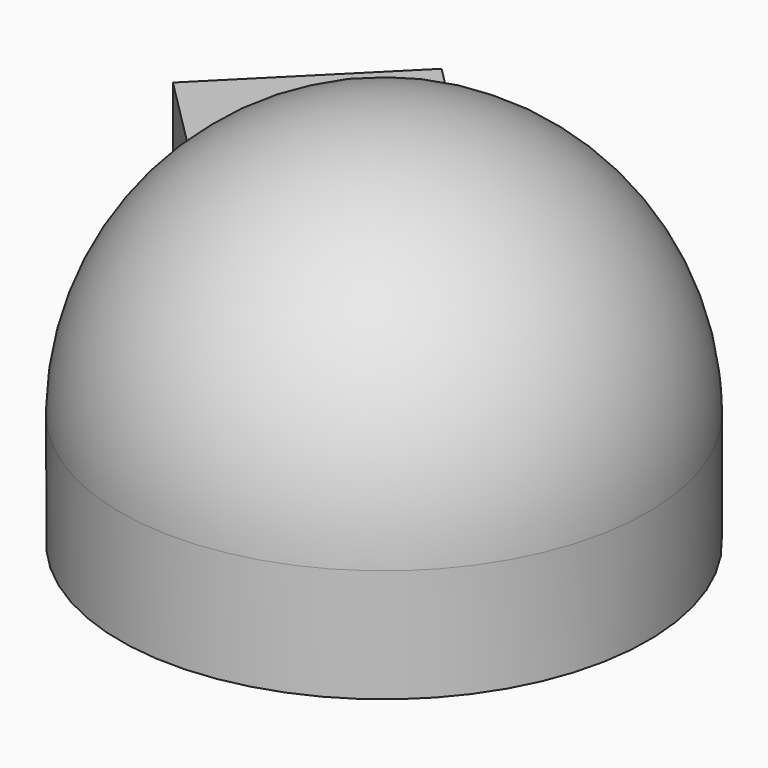
from build123d import *

# Parameters (mm, degrees)
CYLINDER055_R             = 35
CYLINDER055_DEPTH         = 15
BOX041_W                  = 28
BOX041_H                  = 45
BOX041_DEPTH              = 15
SPHERE002_ANGLE           = 180
FUSION034_PLACEMENT_ANGLE = 45


with BuildPart() as cylinder055:
    # Cylinder055 → Cylinder055 (new body)
    with BuildSketch(Plane(origin=(73.5, -135, -81), x_dir=(1, 0, 0), z_dir=(0, 0, 1))):
        Circle(CYLINDER055_R)
    extrude(amount=CYLINDER055_DEPTH)


with BuildPart() as cube029:
    # Box041 → Box041 (new body)
    with BuildSketch(Plane(origin=(60, -103.5, -81), x_dir=(1, 0, 0), z_dir=(0, 0, 1))):
        with Locations((14, 22.5)):
            Rectangle(BOX041_W, BOX041_H)
    extrude(amount=BOX041_DEPTH)


with BuildPart() as rainmodule:
    # Sphere002 → Sphere002 (revolve)
    with BuildSketch(Plane(origin=(73.5, -135, -66), x_dir=(0, 1, 0), z_dir=(0, 0, -1))):
        with BuildLine():
            ThreePointArc((0, -35), (35, 0), (0, 35))
            Line((0, 35), (0, -35))
        make_face()
    revolve(axis=Axis((73.5, -135, -66), (1, 0, 0)), revolution_arc=SPHERE002_ANGLE)

    # Fusion034: union Cylinder055, Cube029
    add(cylinder055.part)
    add(cube029.part)


with BuildPart() as rainmodule_1:
    # Fusion034 placement: moved
    add(rainmodule.part.moved(Location((53.33, -67.67, 0))).rotate(Axis((53.33, -67.67, 0), (0, 0, 1)), FUSION034_PLACEMENT_ANGLE))


solid = rainmodule_1.part
